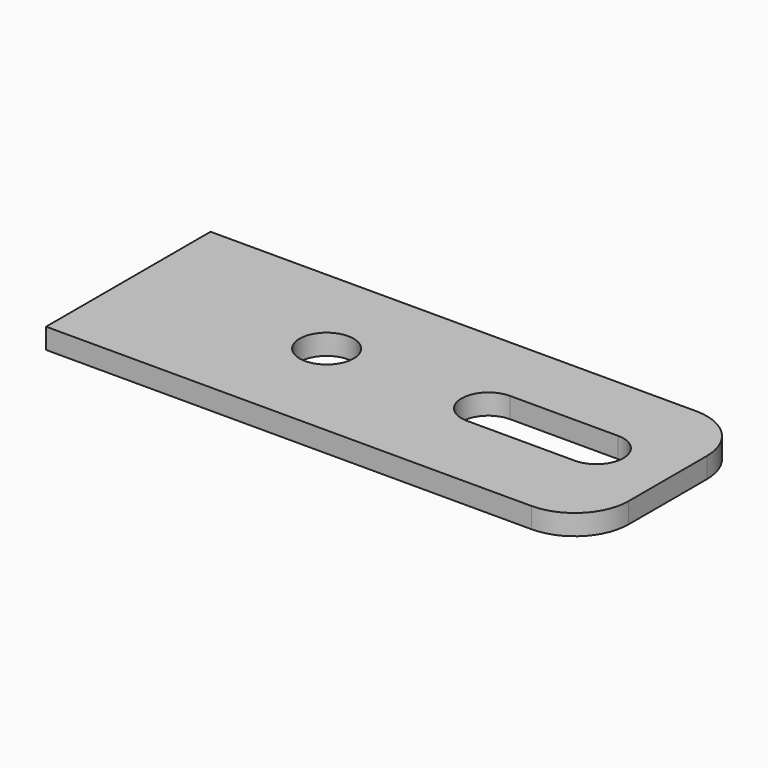
from build123d import *

# Parameters (mm, degrees)
F0_R     = 2.5
F1_DEPTH = 1.9


with BuildPart() as f1:
    # F0 (on Top) → F1 (new body)
    with BuildSketch(Plane.XY):
        with BuildLine():
            Line((12.146005, 9.05), (-32.853995, 9.05))
            Line((-32.853995, 9.05), (-32.853995, -10))
            Line((-32.853995, -10), (12.146005, -10))
            ThreePointArc((12.146005, -10), (15.681539, -8.535534), (17.146005, -5))
            Line((17.146005, -5), (17.146005, 4.05))
            ThreePointArc((17.146005, 4.05), (15.681539, 7.585534), (12.146005, 9.05))
        make_face()
        with Locations((-14.853995, 0)):
            Circle(F0_R, mode=Mode.SUBTRACT)
        with BuildLine():
            ThreePointArc((10.146005, 2.5), (12.646005, 0), (10.146005, -2.5))
            Line((10.146005, -2.5), (0.146005, -2.5))
            ThreePointArc((0.146005, -2.5), (-2.353995, 0), (0.146005, 2.5))
            Line((0.146005, 2.5), (10.146005, 2.5))
        make_face(mode=Mode.SUBTRACT)
    extrude(amount=F1_DEPTH)


solid = f1.part
